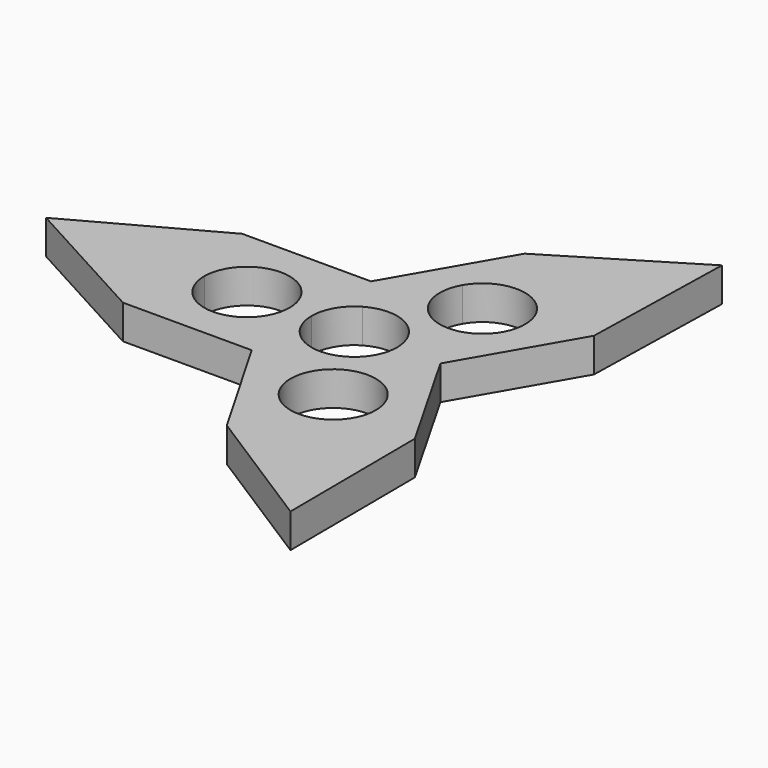
from build123d import *

# Parameters (mm, degrees)
F1_DEPTH = 6.35


with BuildPart() as f1:
    # F0 (on Top) → F1 (new body)
    with BuildSketch(Plane.XY):
        Polygon((-31.9870654494, 0), (-31.9855064154, 13.8778677747), (-57.3915839195, 0), align=None)
        Polygon((-31.9886244833, -13.8778677747), (-31.9870654494, 0), (-57.3915839195, 0), align=None)
        with BuildLine():
            Line((-31.9886244833, -13.8778677747), (-20.0005075894, -13.8778677747))
            Line((-20.0005075894, -13.8778677747), (-20.0005075894, -7.9417351609))
            ThreePointArc((-20.0005075894, -7.9417351609), (-25.6161623761, -5.6156547867), (-27.9422427503, 0))
            Line((-27.9422427503, 0), (-31.9870654494, 0))
            Line((-31.9870654494, 0), (-31.9886244833, -13.8778677747))
        make_face()
        with BuildLine():
            Line((-8.0123906955, -13.8778677747), (-8.0123906955, 0))
            Line((-8.0123906955, 0), (-8.0123906955, 13.8778677747))
            Line((-8.0123906955, 13.8778677747), (-31.9855064154, 13.8778677747))
            Line((-31.9855064154, 13.8778677747), (-31.9870654494, 0))
            Line((-31.9870654494, 0), (-27.9422427503, 0))
            ThreePointArc((-27.9422427503, 0), (-20.0005075894, 7.9417351609), (-12.0587724285, 0))
            ThreePointArc((-12.0587724285, 0), (-14.3848528028, -5.6156547867), (-20.0005075894, -7.9417351609))
            Line((-20.0005075894, -7.9417351609), (-20.0005075894, -13.8778677747))
            Line((-20.0005075894, -13.8778677747), (-8.0123906955, -13.8778677747))
        make_face()
        with BuildLine():
            ThreePointArc((3.9755324833, -6.8858242482), (-3.9755324833, -6.8858242482), (-7.9510649666, 0))
            Line((-7.9510649666, 0), (-8.0123906955, 0))
            Line((-8.0123906955, 0), (-8.0123906955, -13.8778677747))
            Line((-8.0123906955, -13.8778677747), (16.024781391, 0))
            Line((16.024781391, 0), (3.9755324833, -6.8858242482))
        make_face()
        with BuildLine():
            Line((-8.0123906955, 0), (-7.9510649666, 0))
            ThreePointArc((-7.9510649666, 0), (-6.8858242482, 3.9755324833), (-3.9755324833, 6.8858242482))
            Line((-3.9755324833, 6.8858242482), (-8.0123906955, 13.8778677747))
            Line((-8.0123906955, 13.8778677747), (-8.0123906955, 0))
        make_face()
        with BuildLine():
            ThreePointArc((7.9510649666, 0), (6.8858242482, -3.9755324833), (3.9755324833, -6.8858242482))
            Line((3.9755324833, -6.8858242482), (16.024781391, 0))
            Line((16.024781391, 0), (-8.0123906955, 13.8778677747))
            Line((-8.0123906955, 13.8778677747), (-3.9755324833, 6.8858242482))
            ThreePointArc((-3.9755324833, 6.8858242482), (3.9755324833, 6.8858242482), (7.9510649666, 0))
        make_face()
        with BuildLine():
            Line((3.0704416776, -21.3207677669), (-2.0188123667, -24.2590499594))
            Line((-2.0188123667, -24.2590499594), (3.9747659621, -34.640232144))
            Line((3.9747659621, -34.640232144), (15.9452110809, -27.723816859))
            Line((15.9452110809, -27.723816859), (13.9207404634, -24.2235938808))
            ThreePointArc((13.9207404634, -24.2235938808), (7.8940668464, -25.0205819689), (3.0704416776, -21.3207677669))
        make_face()
        with BuildLine():
            Line((27.9156561998, -20.807401574), (16.024781391, 0))
            Line((16.024781391, 0), (-8.0123906955, -13.8778677747))
            Line((-8.0123906955, -13.8778677747), (-2.0188123667, -24.2590499594))
            Line((-2.0188123667, -24.2590499594), (3.0704416776, -21.3207677669))
            ThreePointArc((3.0704416776, -21.3207677669), (7.8910972434, -9.6826757204), (17.8849534495, -17.3512313014))
            ThreePointArc((17.8849534495, -17.3512313014), (16.8228559437, -21.3181051342), (13.9207404634, -24.2235938808))
            Line((13.9207404634, -24.2235938808), (15.9452110809, -27.723816859))
            Line((15.9452110809, -27.723816859), (27.9156561998, -20.807401574))
        make_face()
        Polygon((28.1176838597, -50.0078443375), (27.9156561998, -20.807401574), (15.9452110809, -27.723816859), align=None)
        Polygon((28.1176838597, -50.0078443375), (15.9452110809, -27.723816859), (3.9747659621, -34.640232144), align=None)
        with BuildLine():
            Line((-8.0123906955, 13.8778677747), (16.024781391, 0))
            Line((16.024781391, 0), (28.0089225601, 20.7571413899))
            Line((28.0089225601, 20.7571413899), (15.9905033098, 27.6963641712))
            Line((15.9905033098, 27.6963641712), (13.9690581545, 24.1953128094))
            ThreePointArc((13.9690581545, 24.1953128094), (16.8762828545, 21.2879832849), (17.9403962681, 17.3165624984))
            ThreePointArc((17.9403962681, 17.3165624984), (7.9411489814, 9.6443245895), (3.1189979974, 21.2888529492))
            Line((3.1189979974, 21.2888529492), (-2.020153318, 24.2567273636))
            Line((-2.020153318, 24.2567273636), (-8.0123906955, 13.8778677747))
        make_face()
        with BuildLine():
            Line((3.9720840596, 34.6355869526), (-2.020153318, 24.2567273636))
            Line((-2.020153318, 24.2567273636), (3.1189979974, 21.2888529492))
            ThreePointArc((3.1189979974, 21.2888529492), (7.9421189961, 24.9890603157), (13.9690581545, 24.1953128094))
            Line((13.9690581545, 24.1953128094), (15.9905033098, 27.6963641712))
            Line((15.9905033098, 27.6963641712), (3.9720840596, 34.6355869526))
        make_face()
        Polygon((3.9720840596, 34.6355869526), (15.9905033098, 27.6963641712), (28.6883795595, 49.6885101457), align=None)
        Polygon((15.9905033098, 27.6963641712), (28.0089225601, 20.7571413899), (28.6883795595, 49.6885101457), align=None)
    extrude(amount=F1_DEPTH)


solid = f1.part
